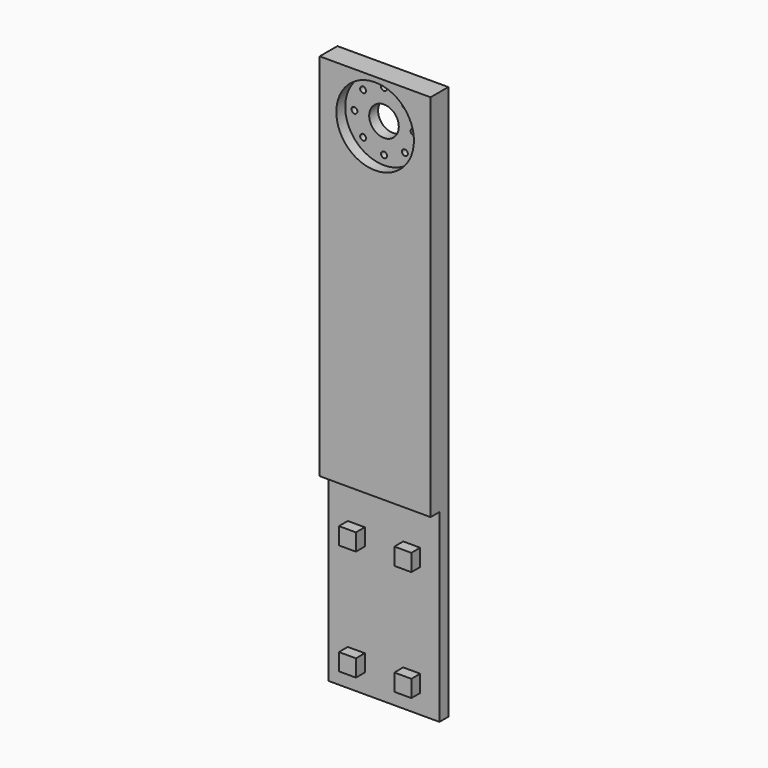
from build123d import *

# Parameters (mm, degrees)
F0_W     = 30
F0_H     = 6
F1_DEPTH = 150
F2_R     = 0.8
F2_R_2   = 4
F3_DEPTH = 6
F4_W     = 3
F4_H     = 50
F5_DEPTH = 30
F6_W     = 4.599998
F6_H     = 4.599998
F6_W_2   = 4.6
F6_H_2   = 4.6
F7_DEPTH = 3
F8_R     = 10.5
F9_DEPTH = 3


with BuildPart() as f1:
    # F0 (on Top) → F1 (new body)
    with BuildSketch(Plane.XY):
        Rectangle(F0_W, F0_H)
    extrude(amount=F1_DEPTH)

    # F2 (on face) → F3 (cut, through all)
    with BuildSketch(Plane.XZ.offset(3)):
        with Locations((0, 146.2)):
            Circle(F2_R)
        with Locations((0, 138.2)):
            Circle(F2_R_2)
        with Locations((-5.656854, 143.856854)):
            Circle(F2_R)
        with Locations((-8, 138.2)):
            Circle(F2_R)
        with Locations((-5.656854, 132.543146)):
            Circle(F2_R)
        with Locations((0, 130.2)):
            Circle(F2_R)
        with Locations((5.656854, 132.543146)):
            Circle(F2_R)
        with Locations((8, 138.2)):
            Circle(F2_R)
        with Locations((5.656854, 143.856854)):
            Circle(F2_R)
    extrude(amount=-F3_DEPTH, mode=Mode.SUBTRACT)

    # F4 (on face) → F5 (cut, through all)
    with BuildSketch(Plane(origin=(-15, 0, 0), x_dir=(0, -1, 0), z_dir=(-1, 0, 0))):
        with Locations((1.5, 25)):
            Rectangle(F4_W, F4_H)
    extrude(amount=-F5_DEPTH, mode=Mode.SUBTRACT)

    # F6 (on face) → F7 (join)
    with BuildSketch(Plane.XZ):
        with Locations((7.5, 37.5)):
            Rectangle(F6_W, F6_H)
        with Locations((-7.5, 37.5)):
            Rectangle(F6_W, F6_H)
        with Locations((-7.5, 7.5)):
            Rectangle(F6_W_2, F6_H_2)
        with Locations((7.5, 7.5)):
            Rectangle(F6_W_2, F6_H_2)
    extrude(amount=F7_DEPTH)

    # F8 (on face) → F9 (cut)
    with BuildSketch(Plane.XZ.offset(3)):
        with Locations((0, 138.2)):
            Circle(F8_R)
    extrude(amount=-F9_DEPTH, mode=Mode.SUBTRACT)


solid = f1.part
